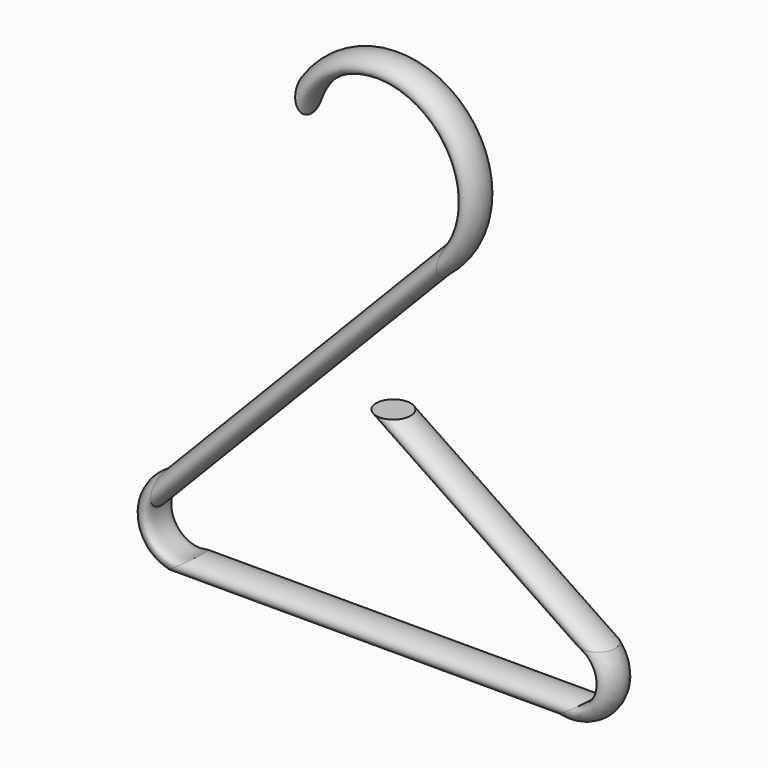
from build123d import *

# Parameters (mm, degrees)
F1_R = 3.3019709843


with BuildPart() as f2:
    # F2: sweep along a path in F0
    with BuildLine(Plane.XZ) as f2_path:
        Line((0, 0), (39.2893811595, -26.5468766402))
        ThreePointArc((39.2893811595, -26.5468766402), (41.806077327, -33.6674111422), (35.7342868298, -38.158416748))
        Line((35.7342868298, -38.158416748), (-39.3495321386, -38.158416748))
        ThreePointArc((-39.3495321386, -38.158416748), (-45.1964271457, -34.2855761647), (-43.9113245874, -27.391115575))
        Line((-43.9113245874, -27.391115575), (10.9896305948, 29.3056666851))
        ThreePointArc((10.9896305948, 29.3056666851), (8.5276815564, 54.7350509883), (-16.1791648716, 48.232242465))
    # F1 (on Top) → F2 (sweep)
    with BuildSketch(Plane.XY):
        Circle(F1_R)
    sweep(path=f2_path.line)


solid = f2.part
